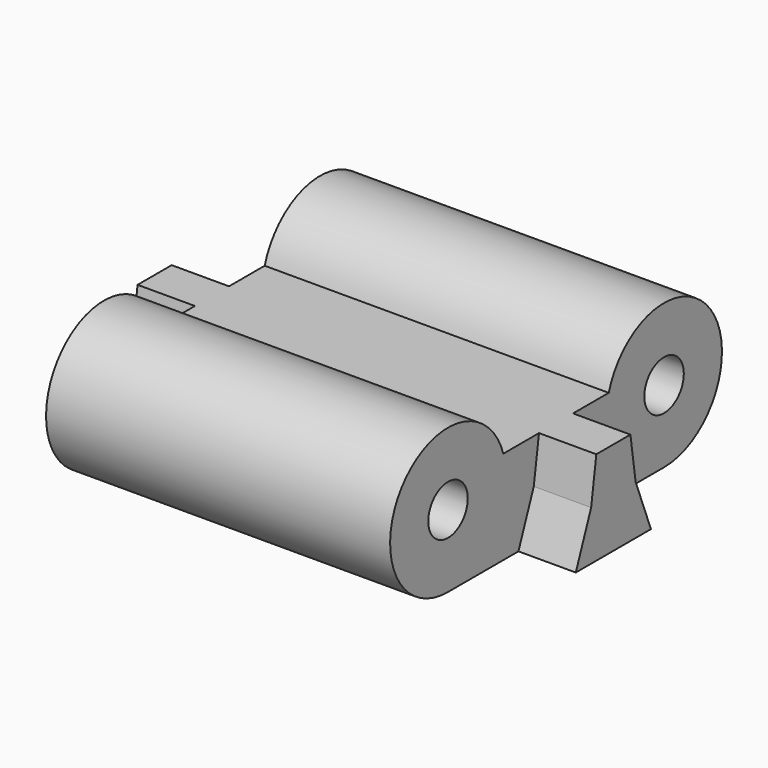
from build123d import *

# Parameters (mm, degrees)
F0_R     = 10.93658
F1_DEPTH = 76.2
F2_DEPTH = 101.6


with BuildPart() as f1:
    # F0 (on Right) → F1 (new body, symmetric)
    with BuildSketch(Plane.YZ):
        Polygon((-12.313237, -10.17919), (-20.806385, -32.049883), (20.806385, -32.049883), (12.313237, -10.17919), align=None)
        with BuildLine():
            ThreePointArc((-29.184296, 9.448227), (-85.59756, 19.031296), (-59.809873, -32.049883))
            Line((-59.809873, -32.049883), (-20.806385, -32.049883))
            Line((-20.806385, -32.049883), (-12.313237, -10.17919))
            Line((-12.313237, -10.17919), (-9.436439, 9.448227))
            Line((-9.436439, 9.448227), (-29.184296, 9.448227))
        make_face()
        with Locations((-59.809873, 0)):
            Circle(F0_R, mode=Mode.SUBTRACT)
        Polygon((-9.436439, 9.448227), (-12.313237, -10.17919), (12.313237, -10.17919), (9.436439, 9.448227), align=None)
        with BuildLine():
            Line((12.313237, -10.17919), (20.806385, -32.049883))
            Line((20.806385, -32.049883), (59.809873, -32.049883))
            ThreePointArc((59.809873, -32.049883), (85.59756, 19.031296), (29.184296, 9.448227))
            Line((29.184296, 9.448227), (9.436439, 9.448227))
            Line((9.436439, 9.448227), (12.313237, -10.17919))
        make_face()
        with Locations((59.809873, 0)):
            Circle(F0_R, mode=Mode.SUBTRACT)
    extrude(amount=F1_DEPTH, both=True)

    # F0 (on Right) → F2 (join, symmetric)
    with BuildSketch(Plane.YZ):
        Polygon((-12.313237, -10.17919), (-20.806385, -32.049883), (20.806385, -32.049883), (12.313237, -10.17919), align=None)
        Polygon((-9.436439, 9.448227), (-12.313237, -10.17919), (12.313237, -10.17919), (9.436439, 9.448227), align=None)
    extrude(amount=F2_DEPTH, both=True)


solid = f1.part
